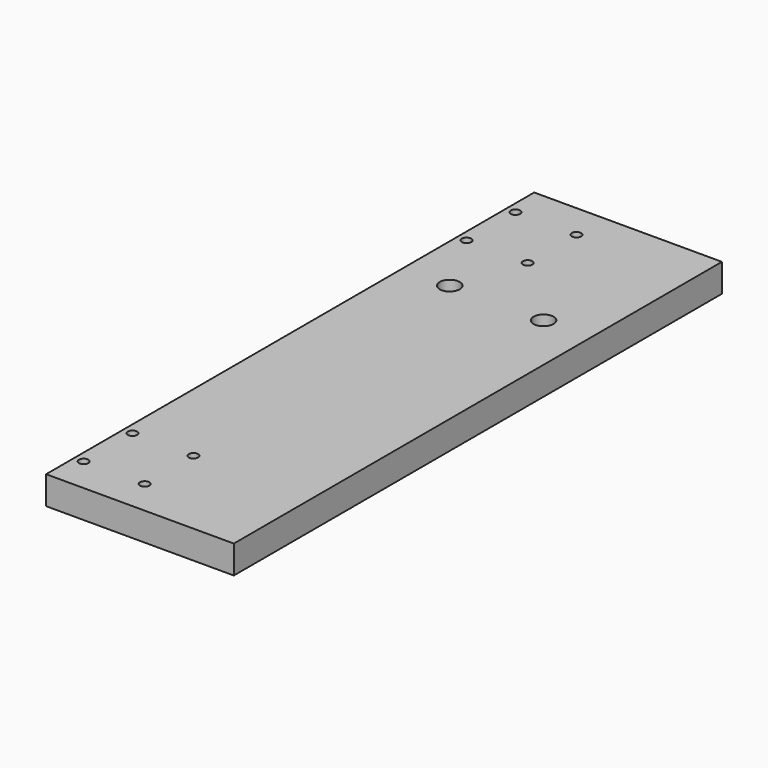
from build123d import *

# Parameters (mm, degrees)
F0_W     = 80
F0_H     = 260
F0_R     = 2
F0_R_2   = 4.25
F1_DEPTH = 12


with BuildPart() as f1:
    # F0 (on Top) → F1 (new body)
    with BuildSketch(Plane.XY):
        Rectangle(F0_W, F0_H)
        with Locations((-36, -115)):
            Circle(F0_R, mode=Mode.SUBTRACT)
        with Locations((-36, -89)):
            Circle(F0_R, mode=Mode.SUBTRACT)
        with Locations((-10, -115)):
            Circle(F0_R, mode=Mode.SUBTRACT)
        with Locations((-10, -89)):
            Circle(F0_R, mode=Mode.SUBTRACT)
        with Locations((-20, 60)):
            Circle(F0_R_2, mode=Mode.SUBTRACT)
        with Locations((-36, 89)):
            Circle(F0_R, mode=Mode.SUBTRACT)
        with Locations((-36, 115)):
            Circle(F0_R, mode=Mode.SUBTRACT)
        with Locations((-10, 89)):
            Circle(F0_R, mode=Mode.SUBTRACT)
        with Locations((-10, 115)):
            Circle(F0_R, mode=Mode.SUBTRACT)
        with Locations((20, 60)):
            Circle(F0_R_2, mode=Mode.SUBTRACT)
    extrude(amount=F1_DEPTH)


solid = f1.part
